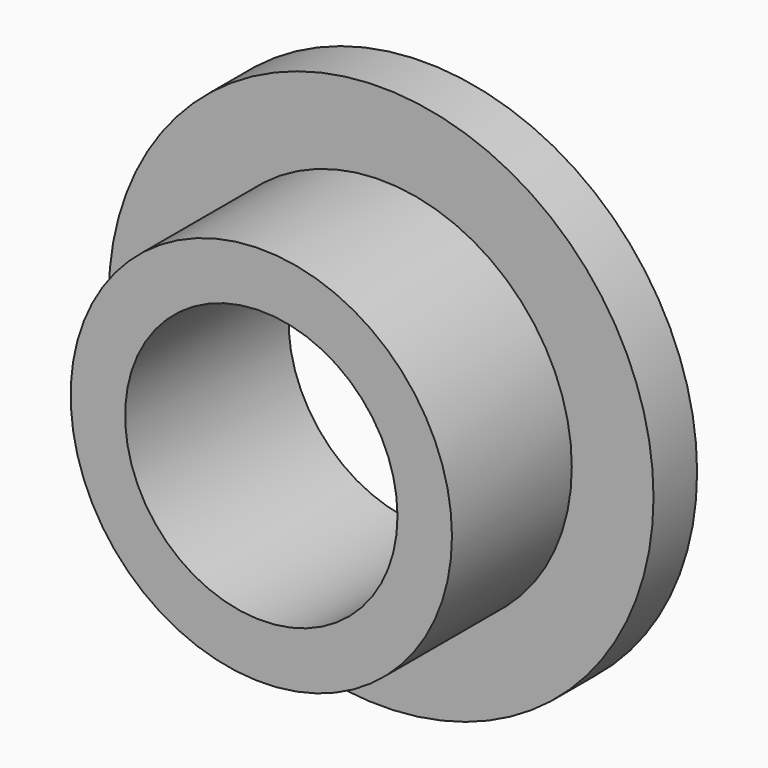
from build123d import *

# Parameters (mm, degrees)
F0_R     = 20
F0_R_2   = 14
F1_DEPTH = 4
F0_R_3   = 10
F2_DEPTH = 15


with BuildPart() as f1:
    # F0 (on Front) → F1 (new body)
    with BuildSketch(Plane.XZ):
        with Locations((14.236011, 16.89407)):
            Circle(F0_R)
        with Locations((14.236011, 16.89407)):
            Circle(F0_R_2, mode=Mode.SUBTRACT)
    extrude(amount=F1_DEPTH)

    # F0 (on Front) → F2 (join)
    with BuildSketch(Plane.XZ):
        with Locations((14.236011, 16.89407)):
            Circle(F0_R_2)
        with Locations((14.236011, 16.89407)):
            Circle(F0_R_3, mode=Mode.SUBTRACT)
    extrude(amount=F2_DEPTH)


solid = f1.part
